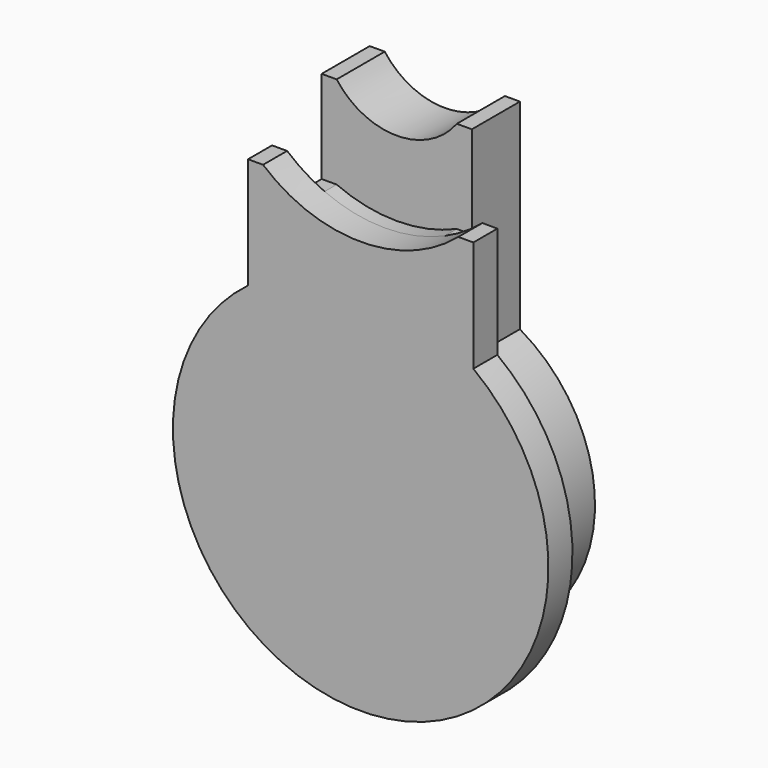
from build123d import *

# Parameters (mm, degrees)
EXTRUDE028_DEPTH = 2
EXTRUDE029_DEPTH = 1
EXTRUDE027_DEPTH = 4


with BuildPart() as hangerlockfront:
    # Sketch037 → Extrude028 (new body)
    with BuildSketch(Plane.XZ):
        with BuildLine():
            ThreePointArc((-7.5, 10), (0, -12.5), (7.5, 10))
            Line((7.5, 10), (7.5, 17.400658))
            Line((6.5, 17.400658), (7.5, 17.400658))
            ThreePointArc((-6.5, 17.400658), (0, 15), (6.5, 17.400658))
            Line((-7.5, 17.400658), (-6.5, 17.400658))
            Line((-7.5, 10), (-7.5, 17.400658))
        make_face()
    extrude(amount=EXTRUDE028_DEPTH)


with BuildPart() as hangerlockfront_1:
    # Extrude028 placement: moved
    add(hangerlockfront.part.moved(Location((0, -5, 0))))


with BuildPart() as hangerlockspacer:
    # Sketch038 → Extrude029 (new body)
    with BuildSketch(Plane.XZ):
        with BuildLine():
            ThreePointArc((-5, 8.660254), (0, -10), (5, 8.660254))
            Line((5, 8.660254), (5, 15.834849))
            Line((4, 15.834849), (5, 15.834849))
            ThreePointArc((-4, 15.834849), (0, 15), (4, 15.834849))
            Line((-5, 15.834849), (-4, 15.834849))
            Line((-5, 8.660254), (-5, 15.834849))
        make_face()
    extrude(amount=EXTRUDE029_DEPTH)


with BuildPart() as hangerlockspacer_1:
    # Extrude029 placement: moved
    add(hangerlockspacer.part.moved(Location((0, -4, 0))))


with BuildPart() as hangerlockright:
    # Sketch036 → Extrude027 (new body)
    with BuildSketch(Plane.XZ):
        with BuildLine():
            ThreePointArc((-5, 8.660254), (0, -10), (5, 8.660254))
            Line((5, 8.660254), (5, 22))
            Line((4, 22), (5, 22))
            ThreePointArc((-4, 22), (0, 20), (4, 22))
            Line((-5, 22), (-4, 22))
            Line((-5, 8.660254), (-5, 22))
        make_face()
    extrude(amount=EXTRUDE027_DEPTH)

    # Fusion002: union HangerLockFront, HangerLockSpacer
    add(hangerlockfront_1.part)
    add(hangerlockspacer_1.part)


with BuildPart() as hangerlockright_1:
    # Fusion002 placement: moved
    add(hangerlockright.part.moved(Location((70, 40, 200))))


solid = hangerlockright_1.part
